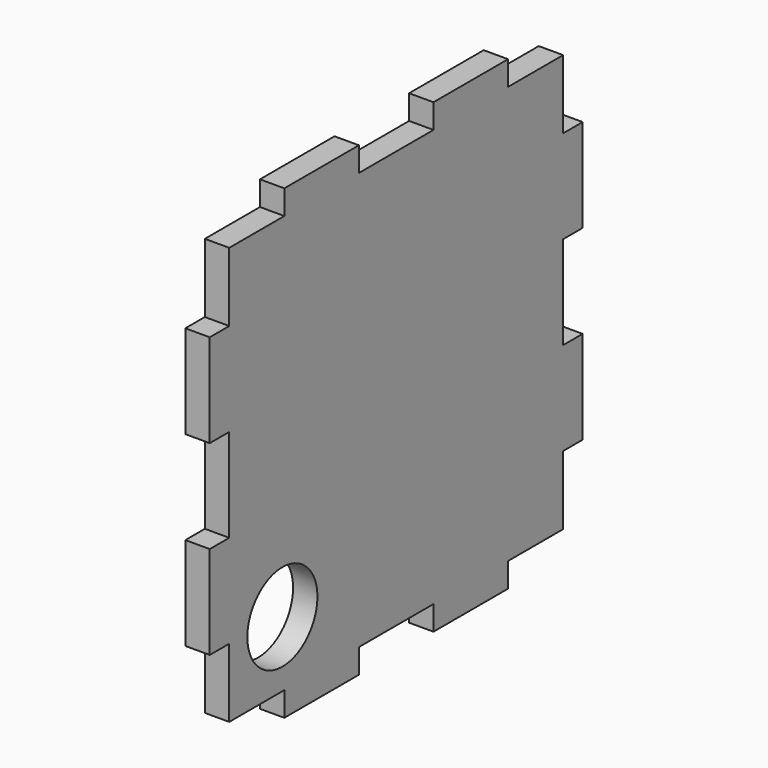
from build123d import *

# Parameters (mm, degrees)
F0_R     = 10.5
F0_W     = 22.3368
F0_H     = 5.842
F0_W_2   = 5.842
F0_H_2   = 22.337
F0_H_3   = 22.3366
F0_W_3   = 22.337
F0_W_4   = 22.3366
F1_DEPTH = 5.842


with BuildPart() as f1:
    # F0 (on Right) → F1 (new body)
    with BuildSketch(Plane.YZ):
        Polygon((-33.5052, 50), (-50, 50), (-50, 33.5052), (-50, 11.1682), (-50, -11.1686), (-50, -33.5052), (-50, -50), (-33.5052, -50), (-11.1682, -50), (11.1686, -50), (33.5052, -50), (50, -50), (50, -33.5052), (50, -11.1686), (50, 11.1682), (50, 33.5052), (50, 50), (33.5052, 50), (11.1684, 50), (-11.1684, 50), align=None)
        with Locations((-34.085574, -34.319336)):
            Circle(F0_R, mode=Mode.SUBTRACT)
        with Locations((-22.3368, 52.921)):
            Rectangle(F0_W, F0_H)
        with Locations((-52.921, 22.3367)):
            Rectangle(F0_W_2, F0_H_2)
        with Locations((22.3368, 52.921)):
            Rectangle(F0_W, F0_H)
        with Locations((-52.921, -22.3369)):
            Rectangle(F0_W_2, F0_H_3)
        with Locations((52.921, 22.3367)):
            Rectangle(F0_W_2, F0_H_2)
        with Locations((-22.3367, -52.921)):
            Rectangle(F0_W_3, F0_H)
        with Locations((52.921, -22.3369)):
            Rectangle(F0_W_2, F0_H_3)
        with Locations((22.3369, -52.921)):
            Rectangle(F0_W_4, F0_H)
    extrude(amount=F1_DEPTH)


solid = f1.part
